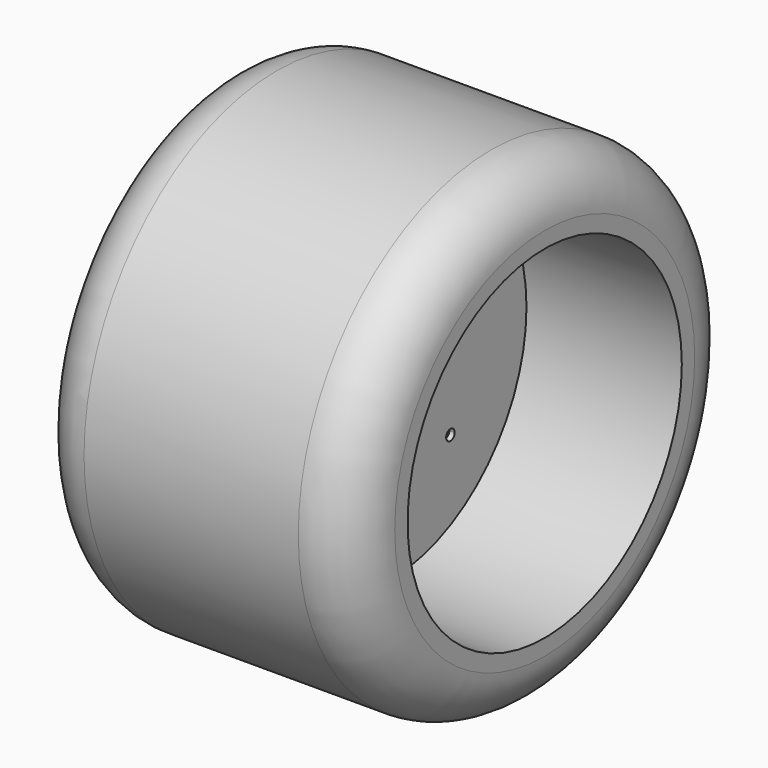
from build123d import *

# Parameters (mm, degrees)
F0_R     = 225
F0_R_2   = 160
F1_DEPTH = 150
F2_R     = 50
F0_R_3   = 51.929068635
F3_DEPTH = 5


with BuildPart() as f1:
    # F0 (on Right) → F1 (new body, symmetric)
    with BuildSketch(Plane.YZ):
        Circle(F0_R)
        Circle(F0_R_2, mode=Mode.SUBTRACT)
    extrude(amount=F1_DEPTH, both=True)

    # F2
    f2_edges = [f1.edges().sort_by_distance(p)[0] for p in [
        (150, -225, 0),
        (-150, -225, 0),
        (0, 225, 0),
    ]]
    fillet(f2_edges, radius=F2_R)

    # F0 (on Right) → F3 (join)
    with BuildSketch(Plane.YZ):
        Circle(F0_R_2)
        with BuildLine():
            ThreePointArc((74.6640796825, 65.4801758986), (92.944153106, 34.982318876), (99.3095072515, 0))
            ThreePointArc((99.3095072515, 0), (92.944153106, -34.982318876), (74.6640796825, -65.4801758986))
            ThreePointArc((74.6640796825, -65.4801758986), (75.8536647795, -67.1491372402), (76.2737192458, -69.1551529202))
            ThreePointArc((76.2737192458, -69.1551529202), (73.1638044573, -73.7841461037), (67.7026880885, -72.6548295444))
            ThreePointArc((67.7026880885, -72.6548295444), (0, -99.3095072515), (-67.7026880885, -72.6548295444))
            ThreePointArc((-67.7026880885, -72.6548295444), (-74.8621832921, -72.6369521373), (-74.6640796825, -65.4801758986))
            ThreePointArc((-74.6640796825, -65.4801758986), (-99.3095072515, 0), (-74.6640796825, 65.4801758986))
            ThreePointArc((-74.6640796825, 65.4801758986), (-74.8621832921, 72.6369521373), (-67.7026880885, 72.6548295444))
            ThreePointArc((-67.7026880885, 72.6548295444), (0, 99.3095072515), (67.7026880885, 72.6548295444))
            ThreePointArc((67.7026880885, 72.6548295444), (73.1638044573, 73.7841461037), (76.2737192458, 69.1551529202))
            ThreePointArc((76.2737192458, 69.1551529202), (75.8536647795, 67.1491372402), (74.6640796825, 65.4801758986))
        make_face(mode=Mode.SUBTRACT)
        with BuildLine():
            ThreePointArc((-71.2737192458, 64.1551529202), (-73.0937624997, 64.4981750853), (-74.6640796825, 65.4801758986))
            ThreePointArc((-74.6640796825, 65.4801758986), (-99.3095072515, 0), (-74.6640796825, -65.4801758986))
            ThreePointArc((-74.6640796825, -65.4801758986), (-73.0937624997, -64.4981750853), (-71.2737192458, -64.1551529202))
            Line((-71.2737192458, -64.1551529202), (-71.2737192458, 64.1551529202))
        make_face()
        with BuildLine():
            ThreePointArc((66.2737192458, 69.1551529202), (66.6447260623, 71.0452381317), (67.7026880885, 72.6548295444))
            ThreePointArc((67.7026880885, 72.6548295444), (0, 99.3095072515), (-67.7026880885, 72.6548295444))
            ThreePointArc((-67.7026880885, 72.6548295444), (-66.6447260623, 71.0452381317), (-66.2737192458, 69.1551529202))
            Line((-66.2737192458, 69.1551529202), (66.2737192458, 69.1551529202))
        make_face()
        with BuildLine():
            ThreePointArc((-67.7026880885, -72.6548295444), (0, -99.3095072515), (67.7026880885, -72.6548295444))
            ThreePointArc((67.7026880885, -72.6548295444), (66.6447260623, -71.0452381317), (66.2737192458, -69.1551529202))
            Line((66.2737192458, -69.1551529202), (-66.2737192458, -69.1551529202))
            ThreePointArc((-66.2737192458, -69.1551529202), (-66.6447260623, -71.0452381317), (-67.7026880885, -72.6548295444))
        make_face()
        with BuildLine():
            Line((71.2737192458, -64.1551529202), (71.2737192458, 64.1551529202))
            ThreePointArc((71.2737192458, 64.1551529202), (67.7381853399, 65.6196190142), (66.2737192458, 69.1551529202))
            Line((66.2737192458, 69.1551529202), (-66.2737192458, 69.1551529202))
            ThreePointArc((-66.2737192458, 69.1551529202), (-67.7381853399, 65.6196190142), (-71.2737192458, 64.1551529202))
            Line((-71.2737192458, 64.1551529202), (-71.2737192458, -64.1551529202))
            ThreePointArc((-71.2737192458, -64.1551529202), (-67.7381853399, -65.6196190142), (-66.2737192458, -69.1551529202))
            Line((-66.2737192458, -69.1551529202), (66.2737192458, -69.1551529202))
            ThreePointArc((66.2737192458, -69.1551529202), (67.7381853399, -65.6196190142), (71.2737192458, -64.1551529202))
        make_face()
        Circle(F0_R_3, mode=Mode.SUBTRACT)
        with BuildLine():
            ThreePointArc((74.6640796825, -65.4801758986), (92.944153106, -34.982318876), (99.3095072515, 0))
            ThreePointArc((99.3095072515, 0), (92.944153106, 34.982318876), (74.6640796825, 65.4801758986))
            ThreePointArc((74.6640796825, 65.4801758986), (73.0937624997, 64.4981750853), (71.2737192458, 64.1551529202))
            Line((71.2737192458, 64.1551529202), (71.2737192458, -64.1551529202))
            ThreePointArc((71.2737192458, -64.1551529202), (73.0937624997, -64.4981750853), (74.6640796825, -65.4801758986))
        make_face()
    extrude(amount=F3_DEPTH)


solid = f1.part
